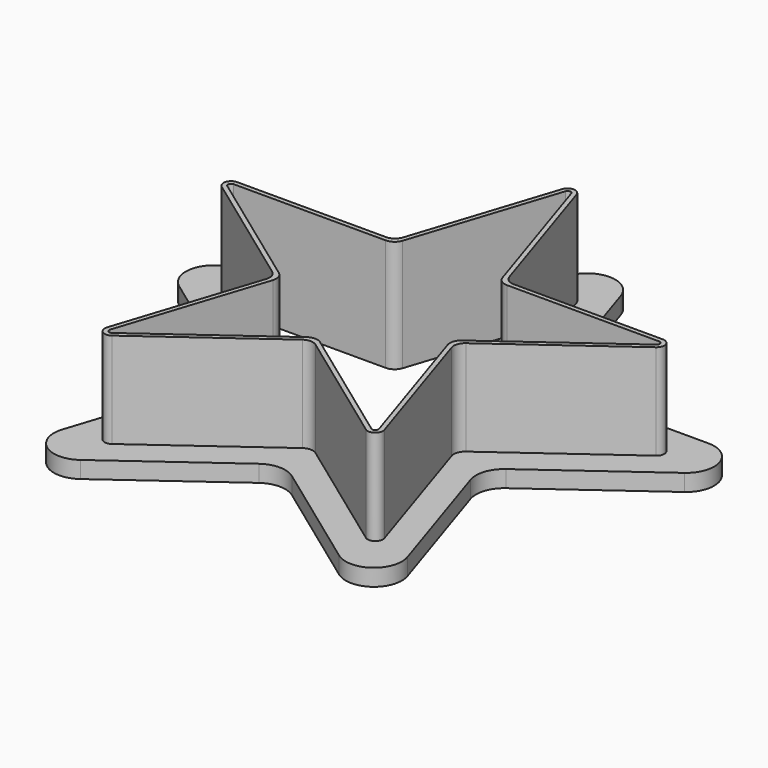
from build123d import *

# Parameters (mm, degrees)
F1_DEPTH = 3
F2_DEPTH = 17
F3_R     = 5
F4_R     = 5
F5_R     = 2


with BuildPart() as f1:
    # F0 (on Top) → F1 (new body)
    with BuildSketch(Plane.XY):
        Polygon((-13.561376, 18.665632), (-57.446909, 18.665632), (-21.942767, -7.129637), (-35.504142, -48.867259), (0, -23.07199), (35.504142, -48.867259), (21.942767, -7.129637), (57.446909, 18.665632), (13.561376, 18.665632), (0, 60.403254), align=None)
        with BuildLine():
            Line((-37.903616, 13.665631), (-9.928662, 13.665631))
            Line((-9.928662, 13.665631), (-1.283926, 40.271394))
            ThreePointArc((-1.283926, 40.271394), (0, 41.204221), (1.283926, 40.271394))
            Line((1.283926, 40.271394), (9.928662, 13.665631))
            Line((9.928662, 13.665631), (37.903616, 13.665631))
            ThreePointArc((37.903616, 13.665631), (39.187542, 12.732804), (38.697126, 11.223459))
            Line((38.697126, 11.223459), (16.064913, -5.219807))
            Line((16.064913, -5.219807), (24.709649, -31.825569))
            ThreePointArc((24.709649, -31.825569), (24.219233, -33.334915), (22.632213, -33.334915))
            Line((22.632213, -33.334915), (0, -16.891649))
            Line((0, -16.891649), (-22.632213, -33.334915))
            ThreePointArc((-22.632213, -33.334915), (-24.219233, -33.334915), (-24.709649, -31.825569))
            Line((-24.709649, -31.825569), (-16.064913, -5.219807))
            Line((-16.064913, -5.219807), (-38.697126, 11.223459))
            ThreePointArc((-38.697126, 11.223459), (-39.187542, 12.732804), (-37.903616, 13.665631))
        make_face(mode=Mode.SUBTRACT)
        with BuildLine():
            Line((-1.283926, 40.271394), (-9.928662, 13.665631))
            Line((-9.928662, 13.665631), (-37.903616, 13.665631))
            ThreePointArc((-37.903616, 13.665631), (-39.187542, 12.732804), (-38.697126, 11.223459))
            Line((-38.697126, 11.223459), (-16.064913, -5.219807))
            Line((-16.064913, -5.219807), (-24.709649, -31.825569))
            ThreePointArc((-24.709649, -31.825569), (-24.219233, -33.334915), (-22.632213, -33.334915))
            Line((-22.632213, -33.334915), (0, -16.891649))
            Line((0, -16.891649), (22.632213, -33.334915))
            ThreePointArc((22.632213, -33.334915), (24.219233, -33.334915), (24.709649, -31.825569))
            Line((24.709649, -31.825569), (16.064913, -5.219807))
            Line((16.064913, -5.219807), (38.697126, 11.223459))
            ThreePointArc((38.697126, 11.223459), (39.187542, 12.732804), (37.903616, 13.665631))
            Line((37.903616, 13.665631), (9.928662, 13.665631))
            Line((9.928662, 13.665631), (1.283926, 40.271394))
            ThreePointArc((1.283926, 40.271394), (0, 41.204221), (-1.283926, 40.271394))
        make_face()
        with BuildLine():
            Line((-23.948804, -32.072782), (-15.124457, -4.914234))
            Line((-15.124457, -4.914234), (-38.226898, 11.870672))
            ThreePointArc((-38.226898, 11.870672), (-38.426697, 12.485591), (-37.903616, 12.865631))
            Line((-37.903616, 12.865631), (-9.347428, 12.865631))
            Line((-9.347428, 12.865631), (-0.523081, 40.02418))
            ThreePointArc((-0.523081, 40.02418), (0, 40.404221), (0.523081, 40.02418))
            Line((0.523081, 40.02418), (9.347428, 12.865631))
            Line((9.347428, 12.865631), (37.903616, 12.865631))
            ThreePointArc((37.903616, 12.865631), (38.426697, 12.485591), (38.226898, 11.870672))
            Line((38.226898, 11.870672), (15.124457, -4.914234))
            Line((15.124457, -4.914234), (23.948804, -32.072782))
            ThreePointArc((23.948804, -32.072782), (23.749005, -32.687701), (23.102441, -32.687701))
            Line((23.102441, -32.687701), (0, -15.902795))
            Line((0, -15.902795), (-23.102441, -32.687701))
            ThreePointArc((-23.102441, -32.687701), (-23.749005, -32.687701), (-23.948804, -32.072782))
        make_face(mode=Mode.SUBTRACT)
    extrude(amount=-F1_DEPTH)

    # F0 (on Top) → F2 (join)
    with BuildSketch(Plane.XY):
        with BuildLine():
            Line((-1.283926, 40.271394), (-9.928662, 13.665631))
            Line((-9.928662, 13.665631), (-37.903616, 13.665631))
            ThreePointArc((-37.903616, 13.665631), (-39.187542, 12.732804), (-38.697126, 11.223459))
            Line((-38.697126, 11.223459), (-16.064913, -5.219807))
            Line((-16.064913, -5.219807), (-24.709649, -31.825569))
            ThreePointArc((-24.709649, -31.825569), (-24.219233, -33.334915), (-22.632213, -33.334915))
            Line((-22.632213, -33.334915), (0, -16.891649))
            Line((0, -16.891649), (22.632213, -33.334915))
            ThreePointArc((22.632213, -33.334915), (24.219233, -33.334915), (24.709649, -31.825569))
            Line((24.709649, -31.825569), (16.064913, -5.219807))
            Line((16.064913, -5.219807), (38.697126, 11.223459))
            ThreePointArc((38.697126, 11.223459), (39.187542, 12.732804), (37.903616, 13.665631))
            Line((37.903616, 13.665631), (9.928662, 13.665631))
            Line((9.928662, 13.665631), (1.283926, 40.271394))
            ThreePointArc((1.283926, 40.271394), (0, 41.204221), (-1.283926, 40.271394))
        make_face()
        with BuildLine():
            Line((-23.948804, -32.072782), (-15.124457, -4.914234))
            Line((-15.124457, -4.914234), (-38.226898, 11.870672))
            ThreePointArc((-38.226898, 11.870672), (-38.426697, 12.485591), (-37.903616, 12.865631))
            Line((-37.903616, 12.865631), (-9.347428, 12.865631))
            Line((-9.347428, 12.865631), (-0.523081, 40.02418))
            ThreePointArc((-0.523081, 40.02418), (0, 40.404221), (0.523081, 40.02418))
            Line((0.523081, 40.02418), (9.347428, 12.865631))
            Line((9.347428, 12.865631), (37.903616, 12.865631))
            ThreePointArc((37.903616, 12.865631), (38.426697, 12.485591), (38.226898, 11.870672))
            Line((38.226898, 11.870672), (15.124457, -4.914234))
            Line((15.124457, -4.914234), (23.948804, -32.072782))
            ThreePointArc((23.948804, -32.072782), (23.749005, -32.687701), (23.102441, -32.687701))
            Line((23.102441, -32.687701), (0, -15.902795))
            Line((0, -15.902795), (-23.102441, -32.687701))
            ThreePointArc((-23.102441, -32.687701), (-23.749005, -32.687701), (-23.948804, -32.072782))
        make_face(mode=Mode.SUBTRACT)
    extrude(amount=F2_DEPTH)

    # F3
    f3_edges = [f1.edges().sort_by_distance(p)[0] for p in [
        (-35.504142, -48.867259, -1.5),
        (-57.446909, 18.665632, -1.5),
        (35.504142, -48.867259, -1.5),
        (0, 60.403254, -1.5),
        (57.446909, 18.665632, -1.5),
    ]]
    fillet(f3_edges, radius=F3_R)

    # F4
    f4_edges = [f1.edges().sort_by_distance(p)[0] for p in [
        (-21.942767, -7.129637, -1.5),
        (-13.561376, 18.665632, -1.5),
        (13.561376, 18.665632, -1.5),
        (21.942767, -7.129637, -1.5),
        (0, -23.07199, -1.5),
    ]]
    fillet(f4_edges, radius=F4_R)

    # F5
    f5_edges = [f1.edges().sort_by_distance(p)[0] for p in [
        (-9.347428, 12.865631, 7),
        (-9.928662, 13.665631, 8.5),
        (9.928662, 13.665631, 8.5),
        (9.347428, 12.865631, 7),
        (16.064913, -5.219807, 8.5),
        (15.124457, -4.914234, 7),
        (-15.124457, -4.914234, 7),
        (-16.064913, -5.219807, 8.5),
        (0, -15.902795, 7),
        (0, -16.891649, 8.5),
    ]]
    fillet(f5_edges, radius=F5_R)


solid = f1.part
